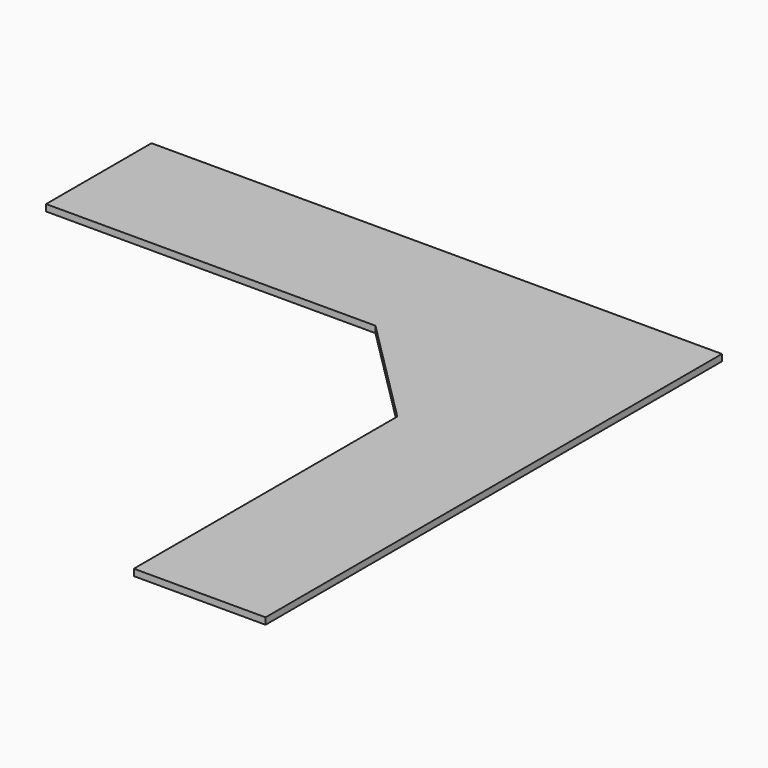
from build123d import *

# Parameters (mm, degrees)
F2_DEPTH = 30.48


with BuildPart() as f2:
    # F1 (on Top) → F2 (new body)
    with BuildSketch(Plane.XY):
        Polygon((1257.456684, 1609.973318), (-1382.111316, 1609.973318), (-1382.111316, 1000.373318), (141.888684, 1000.373318), (647.856684, 1000.373318), (1257.456684, 1000.373318), align=None)
        Polygon((647.856684, 1000.373318), (141.888684, 1000.373318), (647.856684, 494.405318), align=None)
        Polygon((1257.456684, -1029.594682), (1257.456684, 1000.373318), (647.856684, 1000.373318), (647.856684, 494.405318), (647.856684, -1029.594682), align=None)
    extrude(amount=F2_DEPTH)


solid = f2.part
